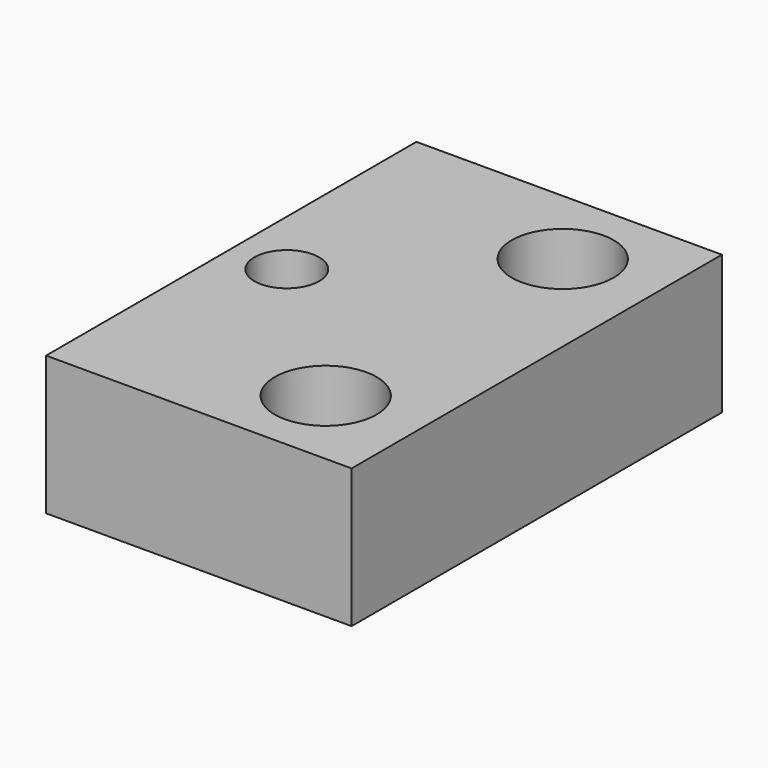
from build123d import *

# Parameters (mm, degrees)
F0_W     = 33
F0_H     = 50
F0_R     = 3.5
F0_R_2   = 5.5
F1_DEPTH = 15


with BuildPart() as f1:
    # F0 (on Top) → F1 (new body)
    with BuildSketch(Plane.XY):
        with Locations((16.48877, 24.996982)):
            Rectangle(F0_W, F0_H)
        with Locations((5.98877, 24.996982)):
            Circle(F0_R, mode=Mode.SUBTRACT)
        with Locations((22.98877, 8.996982)):
            Circle(F0_R_2, mode=Mode.SUBTRACT)
        with Locations((22.98877, 40.996982)):
            Circle(F0_R_2, mode=Mode.SUBTRACT)
    extrude(amount=F1_DEPTH)


solid = f1.part
